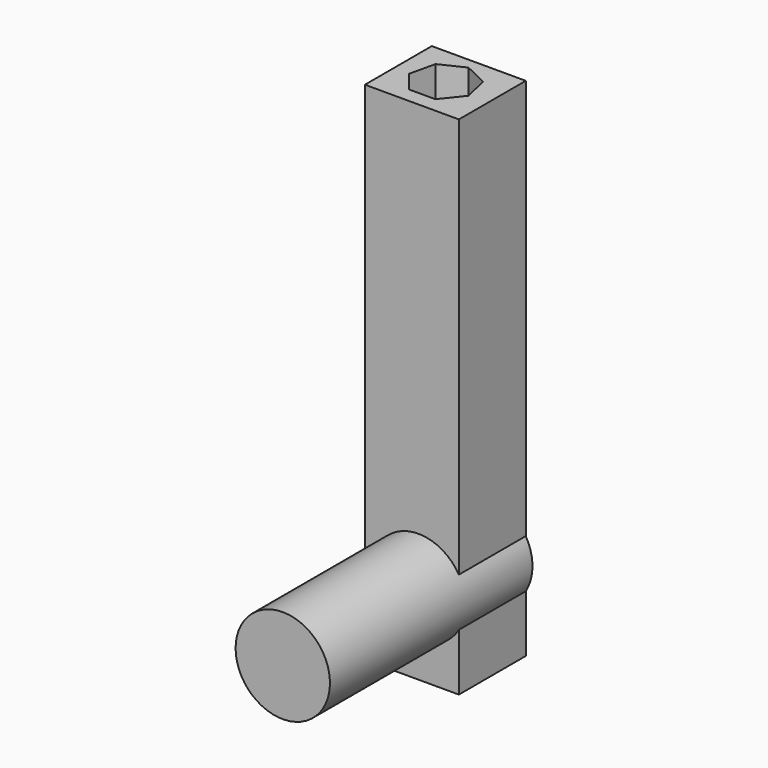
from build123d import *

# Parameters (mm, degrees)
F0_W     = 37.110798
F0_H     = 33.024196
F1_DEPTH = 200
F2_R     = 18.630211
F3_DEPTH = 100


with BuildPart() as f1:
    # F0 (on Top) → F1 (new body)
    with BuildSketch(Plane.XY):
        with Locations((18.555399, 16.512098)):
            Rectangle(F0_W, F0_H)
        Polygon((29.538543, 14.172093), (23.027837, 6.007926), (12.585476, 6.007926), (6.07477, 14.172093), (8.398414, 24.352643), (17.806657, 28.883413), (27.214899, 24.352643), align=None, mode=Mode.SUBTRACT)
    extrude(amount=F1_DEPTH)

    # F2 (on face) → F3 (join)
    with BuildSketch(Plane(origin=(0, 33.024196, 0), x_dir=(-1, 0, 0), z_dir=(0, 1, 0))):
        with Locations((-21.135863, 32.111328)):
            Circle(F2_R)
    extrude(amount=-F3_DEPTH)


solid = f1.part
